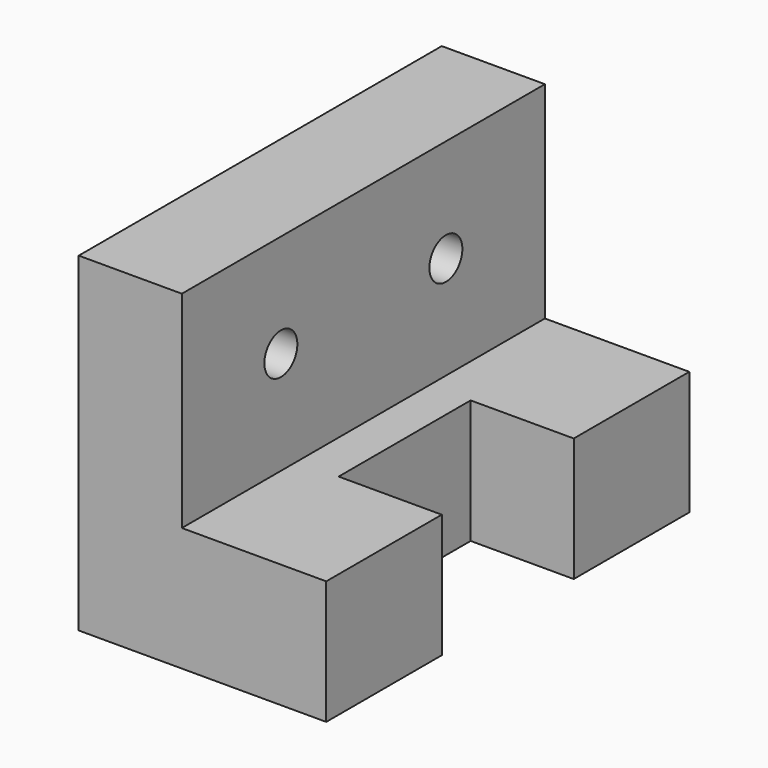
from build123d import *

# Parameters (mm, degrees)
F0_W     = 60
F0_H     = 80
F1_DEPTH = 110
F2_W     = 35
F2_H     = 50
F3_DEPTH = 110.001
F4_W     = 25
F4_H     = 40
F5_DEPTH = 30.001
F7_D     = 10


with BuildPart() as f1:
    # F0 (on Front) → F1 (new body)
    with BuildSketch(Plane.XZ):
        with Locations((30, 40)):
            Rectangle(F0_W, F0_H)
    extrude(amount=F1_DEPTH)

    # F2 (on face) → F3 (cut, through all)
    with BuildSketch(Plane.XZ.offset(110)):
        with Locations((42.5, 55)):
            Rectangle(F2_W, F2_H)
    extrude(amount=-F3_DEPTH, mode=Mode.SUBTRACT)

    # F4 (on face) → F5 (cut, through all)
    with BuildSketch(Plane.XY.offset(30)):
        with Locations((47.5, -55)):
            Rectangle(F4_W, F4_H)
    extrude(amount=-F5_DEPTH, mode=Mode.SUBTRACT)

    # F7 (through all)
    with Locations(Plane.YZ.offset(25)):
        with Locations((-30, 55), (-80, 55)):
            Hole(F7_D / 2)


solid = f1.part
